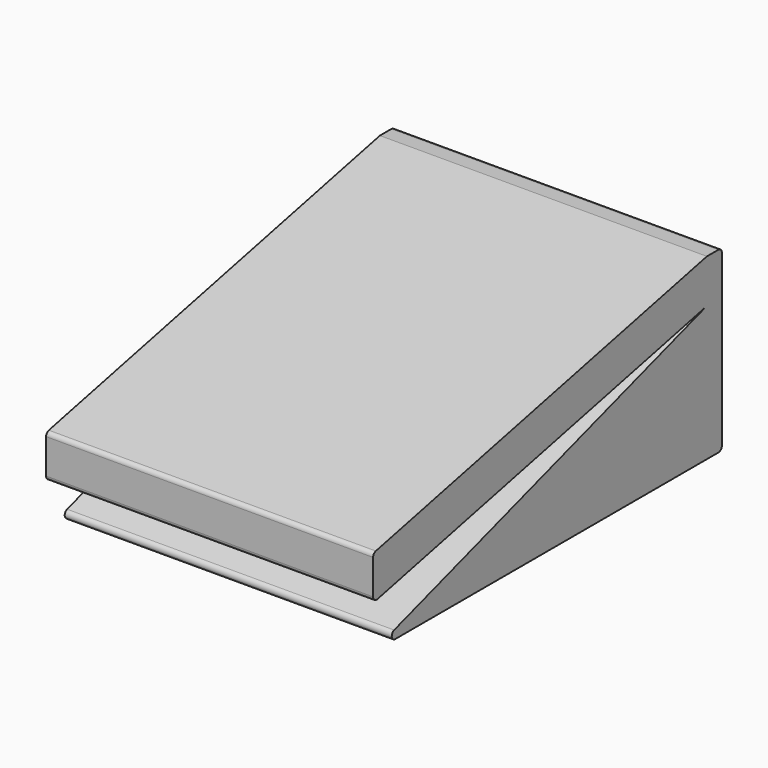
from build123d import *

# Parameters (mm, degrees)
F1_DEPTH = 75
F2_R     = 1


with BuildPart() as f1:
    # F0 (on Right) → F1 (new body)
    with BuildSketch(Plane.YZ):
        Polygon((-100, 0), (0, 0), (0, 40.944344), (-4.311132, 40.944344), (-100, 19.867701), (-100, 9.867701), (-4.311132, 30.944344), align=None)
    extrude(amount=F1_DEPTH)

    # F2
    f2_edges = [f1.edges().sort_by_distance(p)[0] for p in [
        (37.5, -100, 9.867701),
        (37.5, -100, 19.867701),
        (37.5, -100, 0),
        (37.5, 0, 40.944344),
        (37.5, 0, 0),
    ]]
    fillet(f2_edges, radius=F2_R)


solid = f1.part
